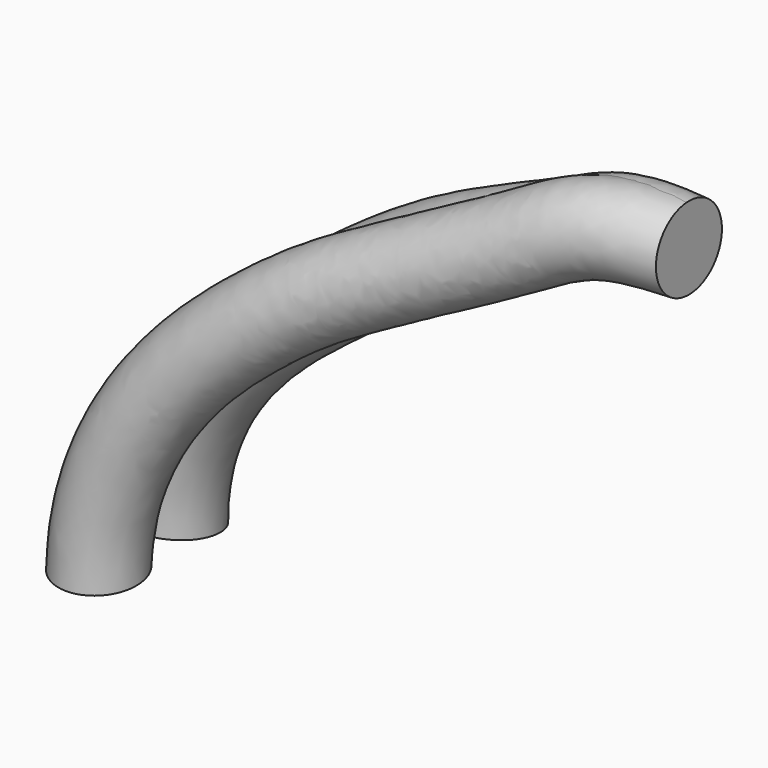
from build123d import *

# Parameters (mm, degrees)
F0_R = 22.5


with BuildPart() as f6:
    # F6: sweep along a path in F4
    with BuildLine(Plane(origin=(0, 0, 0), x_dir=(0.9958249046, 0.0912839496, 0), z_dir=(0.0912839496, -0.9958249046, 0))) as f6_path:
        add(Plane(origin=(0, 0, 0), x_dir=(0.9958249046, 0.0912839496, 0), z_dir=(0.0912839496, -0.9958249046, 0)) * Edge.make_bspline(
            [(-301.6238510609, 0), (-299.6783624846, 73.0507487958), (-218.6742217353, 148.1879439232), (-163.2420062857, 179.3845648061), (-72.3955862133, 225.0543729483), (-46.28564834, 241.845120458), (0, 240.4883801937)],
            knots=[0, 0, 0, 0, 0.3266588724, 0.5334943619, 0.7704334531, 1, 1, 1, 1], degree=3))
    # F0 (on Right) → F6 (sweep)
    with BuildSketch(Plane.YZ):
        with Locations((0, 240)):
            Circle(F0_R)
    sweep(path=f6_path.line)


with BuildPart() as f7:
    # F7: sweep along a path in F5
    with BuildLine(Plane(origin=(0, 0, 0), x_dir=(0.9958249046, -0.0912839496, 0), z_dir=(-0.0912839496, -0.9958249046, 0))) as f7_path:
        add(Plane(origin=(0, 0, 0), x_dir=(0.9958249046, -0.0912839496, 0), z_dir=(-0.0912839496, -0.9958249046, 0)) * Edge.make_bspline(
            [(-304.1065335274, 0), (-303.4163117409, 70.8863213658), (-209.8047464329, 145.3432953957), (-141.8458937012, 193.1914440535), (-60.8153908333, 227.2268486002), (-36.342339803, 241.7157633975), (0, 240.6468987465)],
            knots=[0, 0, 0, 0, 0.3320506386, 0.56928614, 0.7911543082, 1, 1, 1, 1], degree=3))
    # F0 (on Right) → F7 (sweep)
    with BuildSketch(Plane.YZ):
        with Locations((0, 240)):
            Circle(F0_R)
    sweep(path=f7_path.line)


solid = Compound([f6.part, f7.part])
